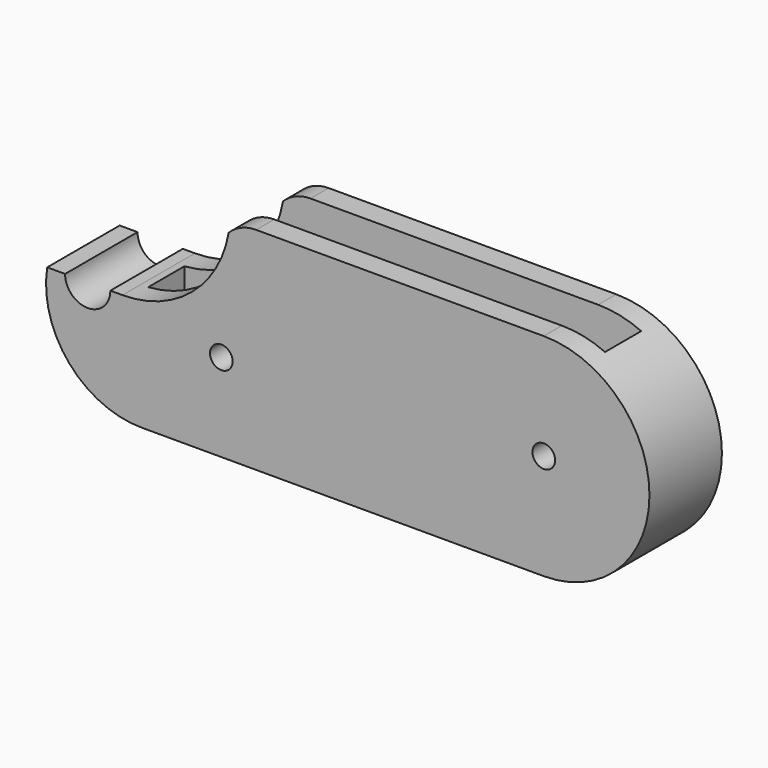
from build123d import *

# Parameters (mm, degrees)
F0_R          = 1.5875
F1_DEPTH      = 6.35
F1_DEPTH_BACK = 6.35
F2_W          = 64.047367
F2_H          = 33.326601
F3_DEPTH      = 3.175
F3_DEPTH_BACK = 3.175


with BuildPart() as f1:
    # F0 (on Front) → F1 (new body, two sides)
    with BuildSketch(Plane.XZ) as f1_sk:
        with BuildLine():
            ThreePointArc((3.175, 0), (0, -3.175), (-3.175, 0))
            Line((-3.175, 0), (-5.67987, 0))
            ThreePointArc((-5.67987, 0), (-2.576317, -10.864385), (7.735714, -15.482709))
            Line((7.735714, -15.482709), (63.945283, -15.482709))
            ThreePointArc((63.945283, -15.482709), (78.762789, -0.665203), (63.945283, 14.152303))
            Line((63.945283, 14.152303), (23.616223, 14.152303))
            ThreePointArc((23.616223, 14.152303), (21.525894, 13.732416), (19.759852, 12.537895))
            ThreePointArc((19.759852, 12.537895), (14.599882, 3.551743), (4.865338, 0))
            Line((4.865338, 0), (3.175, 0))
        make_face()
        with Locations((18.733283, -3.175)):
            Circle(F0_R, mode=Mode.SUBTRACT)
        with Locations((63.945283, -0.665203)):
            Circle(F0_R, mode=Mode.SUBTRACT)
    extrude(amount=F1_DEPTH)
    extrude(f1_sk.sketch, amount=-F1_DEPTH_BACK)

    # F2 (on Front) → F3 (cut, two sides)
    with BuildSketch(Plane.XZ) as f3_sk:
        with Locations((37.966817, 4.051119)):
            Rectangle(F2_W, F2_H)
    extrude(amount=F3_DEPTH, mode=Mode.SUBTRACT)
    extrude(f3_sk.sketch, amount=-F3_DEPTH_BACK, mode=Mode.SUBTRACT)


solid = f1.part
